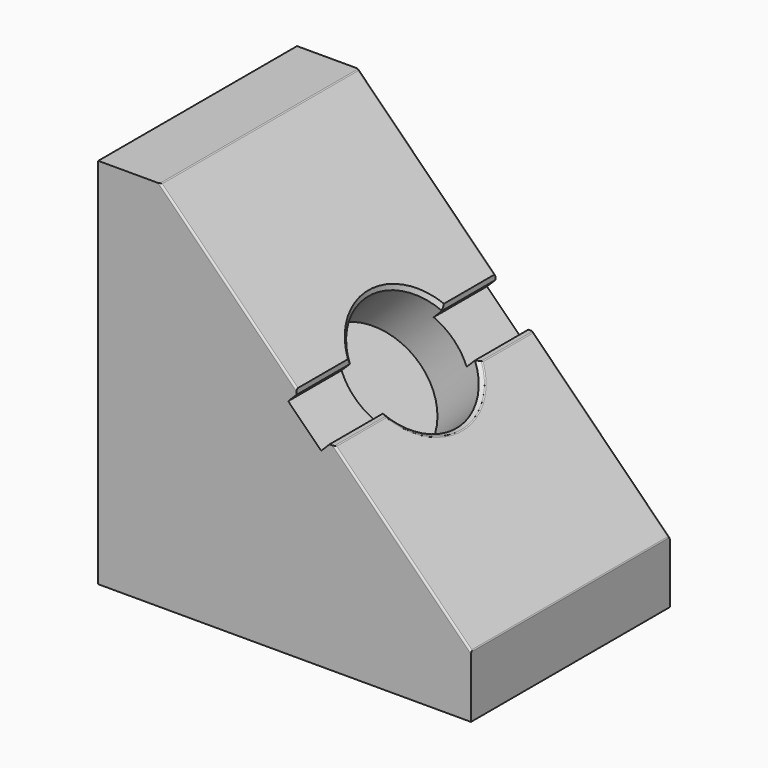
from build123d import *

# Parameters (mm, degrees)
F1_DEPTH      = 50.8
F1_DEPTH_BACK = 50.8
F2_R          = 25.4
F3_DEPTH      = 25.4
F4_W          = 110.558038988
F4_H          = 19.05
F5_DEPTH      = 6.35
F6_SIZE       = 1.524
F7_R          = 0.762


with BuildPart() as f1:
    # F0 (on Front) → F1 (new body, two sides)
    with BuildSketch(Plane.XZ) as f1_sk:
        Polygon((0, 152.4), (0, 0), (152.4, 0), (152.4, 25.4), (25.4, 152.4), align=None)
    extrude(amount=F1_DEPTH)
    extrude(f1_sk.sketch, amount=-F1_DEPTH_BACK)

    # F2 (on face) → F3 (cut)
    with BuildSketch(Plane(origin=(88.9, 0, 88.9), x_dir=(0, 1, 0), z_dir=(0.7071067812, 0, 0.7071067812))):
        Circle(F2_R)
    extrude(amount=-F3_DEPTH, mode=Mode.SUBTRACT)

    # F4 (on face) → F5 (cut)
    with BuildSketch(Plane(origin=(88.9, 0, 88.9), x_dir=(0, 1, 0), z_dir=(0.7071067812, 0, 0.7071067812))):
        Rectangle(F4_W, F4_H)
    extrude(amount=-F5_DEPTH, mode=Mode.SUBTRACT)

    # F6
    f6_edges = [f1.edges().sort_by_distance(p)[0] for p in [
        (82.164808, -37.173215, 95.635192),
        (95.635192, -37.173215, 82.164808),
        (95.635192, 37.173215, 82.164808),
        (82.164808, 37.173215, 95.635192),
        (70.939488, 0, 106.860512),
        (106.860512, 0, 70.939488),
    ]]
    chamfer(f6_edges, length=F6_SIZE)

    # F7
    f7_edges = [f1.edges().sort_by_distance(p)[0] for p in [
        (25.4, 0, 152.4),
        (53.243589, -50.8, 124.556411),
        (53.243589, 50.8, 124.556411),
        (124.556411, 50.8, 53.243589),
        (96.712823, 37.67621, 81.087177),
        (152.4, 0, 25.4),
        (107.938143, 0, 69.861857),
        (124.556411, -50.8, 53.243589),
        (96.712823, -37.67621, 81.087177),
    ]]
    fillet(f7_edges, radius=F7_R)


solid = f1.part
